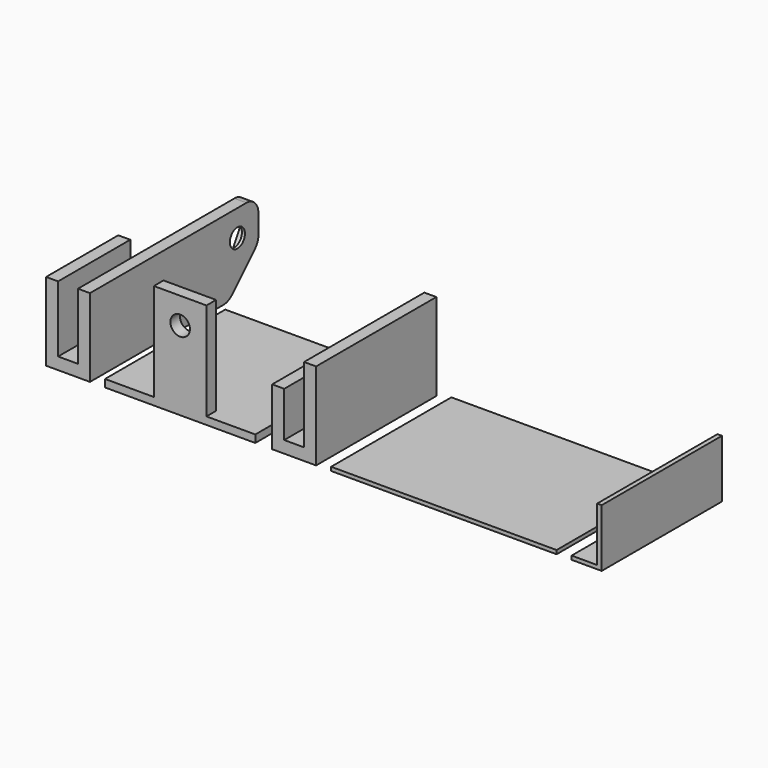
from build123d import *

# Parameters (mm, degrees)
F0_W      = 7.4168
F0_H      = 15.24
F1_DEPTH  = 2.032
F2_W      = 2.032
F2_H      = 15.24
F3_DEPTH  = 11.176
F4_R      = 1.5875
F5_DEPTH  = 2.032
F7_DEPTH  = 1.524
F8_W      = 25.4
F8_H      = 25.4
F9_DEPTH  = 1.27
F10_W     = 8.89
F10_H     = 2.032
F11_DEPTH = 16.51
F12_R     = 1.651
F13_DEPTH = 2.032
F14_W     = 7.4168
F14_H     = 25.4
F15_DEPTH = 2.032
F16_W     = 2.032
F16_H     = 25.4
F17_DEPTH = 12.7
F18_W     = 2.032
F18_H     = 5.08
F19_DEPTH = 25.4
F20_W     = 38.1
F20_H     = 25.4
F20_W_2   = 5.08
F21_DEPTH = 0.635
F22_W     = 0.762
F22_H     = 25.4
F23_DEPTH = 9.144


with BuildPart() as f1:
    # F0 (on Top) → F1 (new body)
    with BuildSketch(Plane.XY):
        with Locations((6.2484, 10.16)):
            Rectangle(F0_W, F0_H)
    extrude(amount=F1_DEPTH)

    # F2 (on face) → F3 (join)
    with BuildSketch(Plane.XY.offset(2.032)):
        with Locations((3.556, 10.16)):
            Rectangle(F2_W, F2_H)
        with Locations((8.9408, 10.16)):
            Rectangle(F2_W, F2_H)
    extrude(amount=F3_DEPTH)

    # F4 (on face) → F5 (join)
    with BuildSketch(Plane.YZ.offset(9.9568)):
        with BuildLine():
            Line((17.78, 13.208), (17.78, 0))
            Line((17.78, 0), (30.723298, 0))
            ThreePointArc((30.723298, 0), (31.695313, 0.193346), (32.519349, 0.743949))
            Line((32.519349, 0.743949), (37.381451, 5.606051))
            ThreePointArc((37.381451, 5.606051), (37.932054, 6.430087), (38.1254, 7.402102))
            Line((38.1254, 7.402102), (38.1254, 10.668))
            ThreePointArc((38.1254, 10.668), (37.381451, 12.464051), (35.5854, 13.208))
            Line((35.5854, 13.208), (17.78, 13.208))
        make_face()
        with Locations((33.6804, 8.763)):
            Circle(F4_R, mode=Mode.SUBTRACT)
    extrude(amount=-F5_DEPTH)

    # F6 (on face) → F7 (cut)
    with BuildSketch(Plane(origin=(7.9248, 0, 0), x_dir=(0, -1, 0), z_dir=(-1, 0, 0))):
        Polygon((-35.308181, 11.5824), (-36.935963, 8.763), (-35.308181, 5.9436), (-32.052619, 5.9436), (-30.424837, 8.763), (-32.052619, 11.5824), align=None)
    extrude(amount=-F7_DEPTH, mode=Mode.SUBTRACT)


with BuildPart() as f9:
    # F8 (on Top) → F9 (new body)
    with BuildSketch(Plane.XY):
        with Locations((25.1968, 15.24)):
            Rectangle(F8_W, F8_H)
    extrude(amount=F9_DEPTH)

    # F10 (on face) → F11 (join)
    with BuildSketch(Plane.XY.offset(1.27)):
        with Locations((25.1968, 3.556)):
            Rectangle(F10_W, F10_H)
    extrude(amount=F11_DEPTH)

    # F12 (on face) → F13 (cut, through all)
    with BuildSketch(Plane(origin=(0, 4.572, 0), x_dir=(-1, 0, 0), z_dir=(0, 1, 0))):
        with Locations((-25.1968, 13.335)):
            Circle(F12_R)
    extrude(amount=-F13_DEPTH, mode=Mode.SUBTRACT)


with BuildPart() as f15:
    # F14 (on Top) → F15 (new body)
    with BuildSketch(Plane.XY):
        with Locations((44.458451, 15.24)):
            Rectangle(F14_W, F14_H)
    extrude(amount=F15_DEPTH)

    # F16 (on face) → F17 (join)
    with BuildSketch(Plane.XY.offset(2.032)):
        with Locations((41.766051, 15.24)):
            Rectangle(F16_W, F16_H)
        with Locations((47.150851, 15.24)):
            Rectangle(F16_W, F16_H)
    extrude(amount=F17_DEPTH)

    # F18 (on face) → F19 (cut, through all)
    with BuildSketch(Plane.XZ.offset(-2.54)):
        with Locations((41.766051, 12.192)):
            Rectangle(F18_W, F18_H)
    extrude(amount=-F19_DEPTH, mode=Mode.SUBTRACT)


with BuildPart() as f21:
    # F20 (on Top) → F21 (new body)
    with BuildSketch(Plane.XY):
        with Locations((69.756851, 15.24)):
            Rectangle(F20_W, F20_H)
        with Locations((93.886851, 15.24)):
            Rectangle(F20_W_2, F20_H)
    extrude(amount=F21_DEPTH)

    # F22 (on face) → F23 (join)
    with BuildSketch(Plane.XY.offset(0.635)):
        with Locations((96.045851, 15.24)):
            Rectangle(F22_W, F22_H)
    extrude(amount=F23_DEPTH)


solid = Compound([f1.part, f9.part, f15.part, f21.part])
